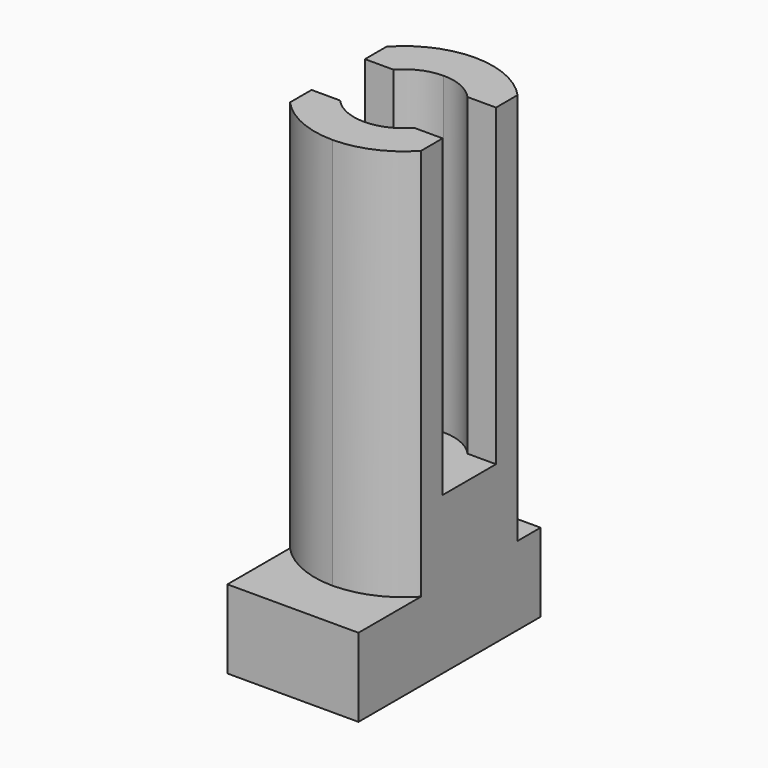
from build123d import *

# Parameters (mm, degrees)
F1_DEPTH = 1
F2_DEPTH = 2
F3_DEPTH = 6


with BuildPart() as f1:
    # F0 (on Top) → F1 (new body)
    with BuildSketch(Plane.XY):
        Polygon((0.2823591599, -0.5064888335), (-0.5526408401, -0.5064888335), (-0.5526408401, -1.1364888335), (1.1173591599, -1.1364888335), (1.1173591599, -0.5064888335), align=None)
        with BuildLine():
            ThreePointArc((0.2823591599, -0.5064888335), (-0.1735336171, -0.4109053889), (-0.5526408401, -0.1402540772))
            Line((-0.5526408401, -0.1402540772), (-0.5526408401, -0.5064888335))
            Line((-0.5526408401, -0.5064888335), (0.2823591599, -0.5064888335))
        make_face()
        with BuildLine():
            Line((1.1173591599, -0.5064888335), (1.1173591599, -0.1402540772))
            ThreePointArc((1.1173591599, -0.1402540772), (0.738251937, -0.4109053889), (0.2823591599, -0.5064888335))
            Line((0.2823591599, -0.5064888335), (1.1173591599, -0.5064888335))
        make_face()
    extrude(amount=F1_DEPTH)



with BuildPart() as f1b:
    # F0 (on Top) → F1, piece 2 (new body)
    with BuildSketch(Plane.XY):
        with BuildLine():
            Line((1.1173591599, 1.7635111665), (0.2823591599, 1.7635111665))
            ThreePointArc((0.2823591599, 1.7635111665), (0.738251937, 1.667927722), (1.1173591599, 1.3972764103))
            Line((1.1173591599, 1.3972764103), (1.1173591599, 1.7635111665))
        make_face()
    extrude(amount=F1_DEPTH)


with BuildPart() as f1c:
    # F0 (on Top) → F1, piece 3 (new body)
    with BuildSketch(Plane.XY):
        with BuildLine():
            Line((0.2823591599, 1.7635111665), (-0.5526408401, 1.7635111665))
            Line((-0.5526408401, 1.7635111665), (-0.5526408401, 1.3972764103))
            ThreePointArc((-0.5526408401, 1.3972764103), (-0.1735336171, 1.667927722), (0.2823591599, 1.7635111665))
        make_face()
    extrude(amount=F1_DEPTH)


with BuildPart() as f2:
    # F0 (on Top) → F2 (new body)
    with BuildSketch(Plane.XY):
        with BuildLine():
            Line((0.2823591599, 0.2035111665), (0.2823591599, 0.6285111665))
            Line((0.2823591599, 0.6285111665), (-0.3526408401, 0.6285111665))
            ThreePointArc((-0.3526408401, 0.6285111665), (-0.3104397956, 0.4008834038), (-0.1894458846, 0.2035111665))
            Line((-0.1894458846, 0.2035111665), (0.2823591599, 0.2035111665))
        make_face()
        with BuildLine():
            Line((-0.3526408401, 0.6285111665), (-0.5526408401, 0.6285111665))
            Line((-0.5526408401, 0.6285111665), (-0.5526408401, 0.2035111665))
            Line((-0.5526408401, 0.2035111665), (-0.1894458846, 0.2035111665))
            ThreePointArc((-0.1894458846, 0.2035111665), (-0.3104397956, 0.4008834038), (-0.3526408401, 0.6285111665))
        make_face()
        with BuildLine():
            Line((-0.1894458846, 1.0535111665), (-0.5526408401, 1.0535111665))
            Line((-0.5526408401, 1.0535111665), (-0.5526408401, 0.6285111665))
            Line((-0.5526408401, 0.6285111665), (-0.3526408401, 0.6285111665))
            ThreePointArc((-0.3526408401, 0.6285111665), (-0.3104397956, 0.8561389293), (-0.1894458846, 1.0535111665))
        make_face()
        with BuildLine():
            Line((0.2823591599, 0.6285111665), (0.2823591599, 1.0535111665))
            Line((0.2823591599, 1.0535111665), (-0.1894458846, 1.0535111665))
            ThreePointArc((-0.1894458846, 1.0535111665), (-0.3104397956, 0.8561389293), (-0.3526408401, 0.6285111665))
            Line((-0.3526408401, 0.6285111665), (0.2823591599, 0.6285111665))
        make_face()
        with BuildLine():
            Line((0.7541642044, 1.0535111665), (0.2823591599, 1.0535111665))
            Line((0.2823591599, 1.0535111665), (0.2823591599, 0.6285111665))
            Line((0.2823591599, 0.6285111665), (0.9173591599, 0.6285111665))
            ThreePointArc((0.9173591599, 0.6285111665), (0.8751581154, 0.8561389293), (0.7541642044, 1.0535111665))
        make_face()
        with BuildLine():
            Line((1.1173591599, 1.0535111665), (0.7541642044, 1.0535111665))
            ThreePointArc((0.7541642044, 1.0535111665), (0.8751581154, 0.8561389293), (0.9173591599, 0.6285111665))
            Line((0.9173591599, 0.6285111665), (1.1173591599, 0.6285111665))
            Line((1.1173591599, 0.6285111665), (1.1173591599, 1.0535111665))
        make_face()
        with BuildLine():
            Line((1.1173591599, 0.6285111665), (0.9173591599, 0.6285111665))
            ThreePointArc((0.9173591599, 0.6285111665), (0.8751581154, 0.4008834038), (0.7541642044, 0.2035111665))
            Line((0.7541642044, 0.2035111665), (1.1173591599, 0.2035111665))
            Line((1.1173591599, 0.2035111665), (1.1173591599, 0.6285111665))
        make_face()
        with BuildLine():
            Line((0.7541642044, 0.2035111665), (0.2823591599, 0.2035111665))
            Line((0.2823591599, 0.2035111665), (0.2823591599, -0.0064888335))
            ThreePointArc((0.2823591599, -0.0064888335), (0.5405741866, 0.0483818706), (0.7541642044, 0.2035111665))
        make_face()
        with BuildLine():
            Line((0.2823591599, -0.0064888335), (0.2823591599, 0.2035111665))
            Line((0.2823591599, 0.2035111665), (-0.1894458846, 0.2035111665))
            ThreePointArc((-0.1894458846, 0.2035111665), (0.0241441332, 0.0483818706), (0.2823591599, -0.0064888335))
        make_face()
        with BuildLine():
            Line((0.9173591599, 0.6285111665), (0.2823591599, 0.6285111665))
            Line((0.2823591599, 0.6285111665), (0.2823591599, 0.2035111665))
            Line((0.2823591599, 0.2035111665), (0.7541642044, 0.2035111665))
            ThreePointArc((0.7541642044, 0.2035111665), (0.8751581154, 0.4008834038), (0.9173591599, 0.6285111665))
        make_face()
        with BuildLine():
            ThreePointArc((0.7541642044, 1.0535111665), (0.5405741866, 1.2086404625), (0.2823591599, 1.2635111665))
            Line((0.2823591599, 1.2635111665), (0.2823591599, 1.0535111665))
            Line((0.2823591599, 1.0535111665), (0.7541642044, 1.0535111665))
        make_face()
        with BuildLine():
            Line((0.2823591599, 1.0535111665), (0.2823591599, 1.2635111665))
            ThreePointArc((0.2823591599, 1.2635111665), (0.0241441332, 1.2086404625), (-0.1894458846, 1.0535111665))
            Line((-0.1894458846, 1.0535111665), (0.2823591599, 1.0535111665))
        make_face()
    extrude(amount=F2_DEPTH)


with BuildPart() as f1_1:
    add(f1.part)

    add(f1b.part)  # F3 merges F1b

    add(f1c.part)  # F3 merges F1c

    add(f2.part)  # F3 merges F2
    # F0 (on Top) → F3 (join)
    with BuildSketch(Plane.XY):
        with BuildLine():
            Line((0.2823591599, 1.2635111665), (0.2823591599, 1.7635111665))
            ThreePointArc((0.2823591599, 1.7635111665), (-0.1735336171, 1.667927722), (-0.5526408401, 1.3972764103))
            Line((-0.5526408401, 1.3972764103), (-0.5526408401, 1.0535111665))
            Line((-0.5526408401, 1.0535111665), (-0.1894458846, 1.0535111665))
            ThreePointArc((-0.1894458846, 1.0535111665), (0.0241441332, 1.2086404625), (0.2823591599, 1.2635111665))
        make_face()
        with BuildLine():
            ThreePointArc((1.1173591599, 1.3972764103), (0.738251937, 1.667927722), (0.2823591599, 1.7635111665))
            Line((0.2823591599, 1.7635111665), (0.2823591599, 1.2635111665))
            ThreePointArc((0.2823591599, 1.2635111665), (0.5405741866, 1.2086404625), (0.7541642044, 1.0535111665))
            Line((0.7541642044, 1.0535111665), (1.1173591599, 1.0535111665))
            Line((1.1173591599, 1.0535111665), (1.1173591599, 1.3972764103))
        make_face()
        with BuildLine():
            Line((-0.1894458846, 0.2035111665), (-0.5526408401, 0.2035111665))
            Line((-0.5526408401, 0.2035111665), (-0.5526408401, -0.1402540772))
            ThreePointArc((-0.5526408401, -0.1402540772), (-0.1735336171, -0.4109053889), (0.2823591599, -0.5064888335))
            Line((0.2823591599, -0.5064888335), (0.2823591599, -0.0064888335))
            ThreePointArc((0.2823591599, -0.0064888335), (0.0241441332, 0.0483818706), (-0.1894458846, 0.2035111665))
        make_face()
        with BuildLine():
            Line((1.1173591599, 0.2035111665), (0.7541642044, 0.2035111665))
            ThreePointArc((0.7541642044, 0.2035111665), (0.5405741866, 0.0483818706), (0.2823591599, -0.0064888335))
            Line((0.2823591599, -0.0064888335), (0.2823591599, -0.5064888335))
            ThreePointArc((0.2823591599, -0.5064888335), (0.738251937, -0.4109053889), (1.1173591599, -0.1402540772))
            Line((1.1173591599, -0.1402540772), (1.1173591599, 0.2035111665))
        make_face()
    extrude(amount=F3_DEPTH)


solid = f1_1.part
